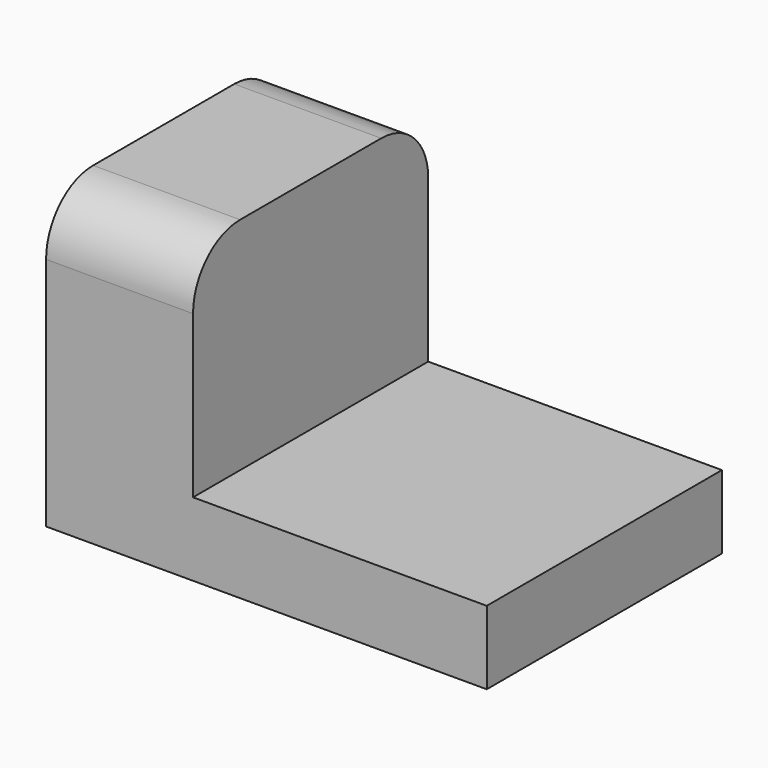
from build123d import *

# Parameters (mm, degrees)
F0_W     = 12.7
F0_H     = 25.4
F2_DEPTH = 25.4
F1_W     = 25.4
F1_H     = 25.4
F3_DEPTH = 6.35
F4_R     = 5.08


with BuildPart() as f2:
    # F0 (on Top) → F2 (new body)
    with BuildSketch(Plane.XY):
        with Locations((6.35, 12.7)):
            Rectangle(F0_W, F0_H)
    extrude(amount=F2_DEPTH)

    # F1 (on Top) → F3 (join)
    with BuildSketch(Plane.XY):
        with Locations((25.376793, 12.7)):
            Rectangle(F1_W, F1_H)
    extrude(amount=F3_DEPTH)

    # F4
    f4_edges = [f2.edges().sort_by_distance(p)[0] for p in [
        (6.35, 0, 25.4),
        (6.35, 25.4, 25.4),
    ]]
    fillet(f4_edges, radius=F4_R)


solid = f2.part
